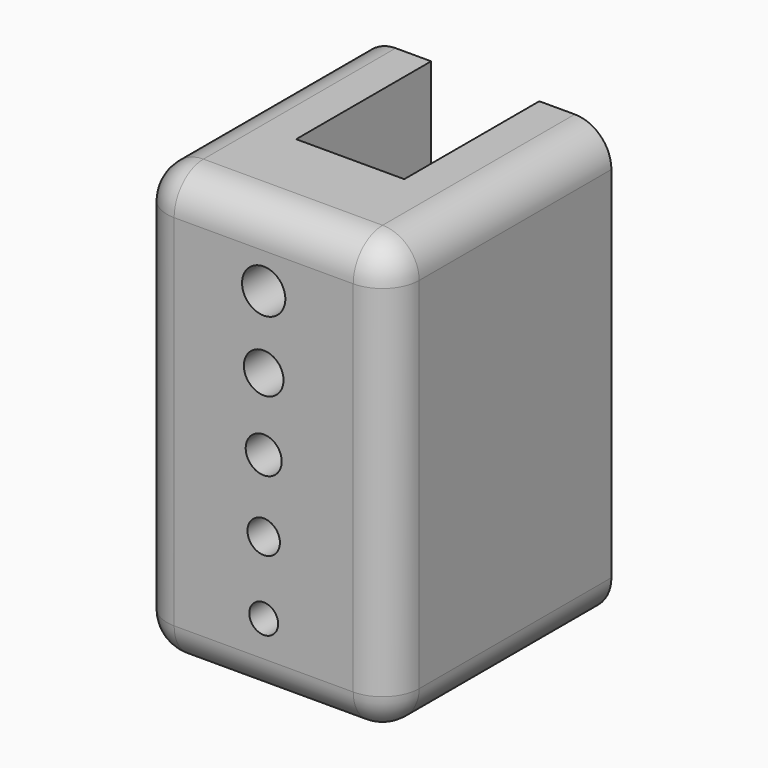
from build123d import *

# Parameters (mm, degrees)
F1_DEPTH = 60
F3_D     = 4
F4_D     = 4.5
F5_D     = 5
F6_D     = 5.5
F7_D     = 6
F8_R     = 5.08


with BuildPart() as f1:
    # F0 (on Top) → F1 (new body)
    with BuildSketch(Plane.XY):
        Polygon((-18.362068, 0), (-17.327586, 0), (16.637932, 0), (16.637932, 38.40517), (6.637932, 38.40517), (6.637932, 15), (-8.362068, 15), (-8.362068, 38.40517), (-18.362068, 38.40517), align=None)
    extrude(amount=F1_DEPTH)

    # F3 (through all)
    with Locations(Plane.XZ):
        with Locations((-0.862068, 10)):
            Hole(F3_D / 2)

    # F4 (through all)
    with Locations(Plane.XZ):
        with Locations((-0.862068, 20)):
            Hole(F4_D / 2)

    # F5 (through all)
    with Locations(Plane.XZ):
        with Locations((-0.862068, 30)):
            Hole(F5_D / 2)

    # F6 (through all)
    with Locations(Plane.XZ):
        with Locations((-0.862068, 40)):
            Hole(F6_D / 2)

    # F7 (through all)
    with Locations(Plane.XZ):
        with Locations((-0.862068, 50)):
            Hole(F7_D / 2)

    # F8
    f8_edges = [f1.edges().sort_by_distance(p)[0] for p in [
        (16.637932, 0, 30),
        (-0.862068, 0, 60),
        (-18.362068, 0, 30),
        (-0.862068, 0, 0),
        (-18.362068, 19.202585, 60),
        (16.637932, 19.202585, 60),
        (-18.362068, 19.202585, 0),
        (16.637932, 19.202585, 0),
    ]]
    fillet(f8_edges, radius=F8_R)


solid = f1.part
